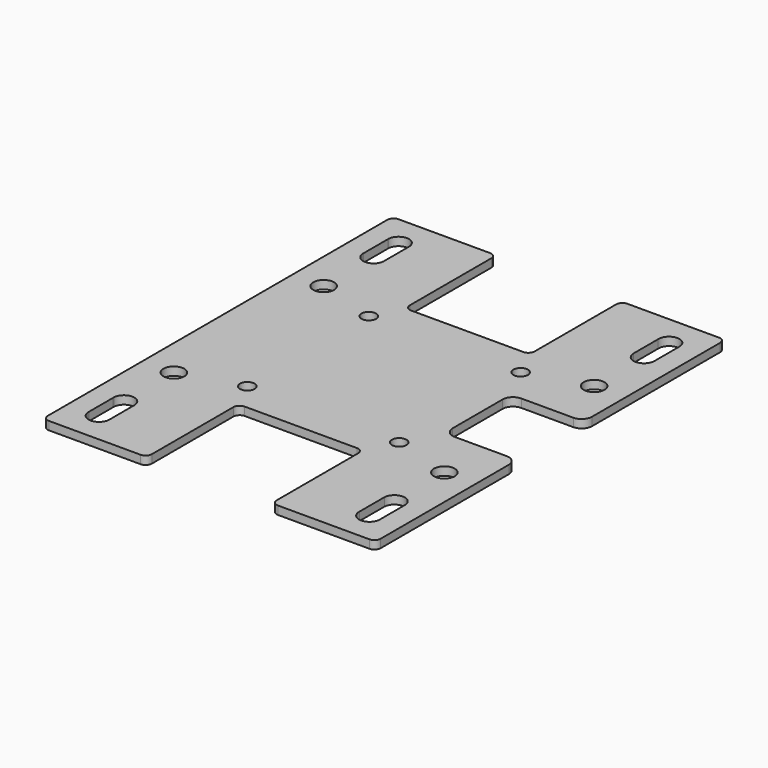
from build123d import *

# Parameters (mm, degrees)
F0_R     = 5
F0_R_2   = 3.5
F1_DEPTH = 4
F2_R     = 5


with BuildPart() as f1:
    # F0 (on Top) → F1 (new body)
    with BuildSketch(Plane.XY):
        with BuildLine():
            ThreePointArc((-80, -102), (-79.12132, -104.12132), (-77, -105))
            Line((-77, -105), (-33, -105))
            ThreePointArc((-33, -105), (-30.87868, -104.12132), (-30, -102))
            Line((-30, -102), (-30, -53))
            ThreePointArc((-30, -53), (-29.12132, -50.87868), (-27, -50))
            Line((-27, -50), (27, -50))
            ThreePointArc((27, -50), (29.12132, -50.87868), (30, -53))
            Line((30, -53), (30, -102))
            ThreePointArc((30, -102), (30.87868, -104.12132), (33, -105))
            Line((33, -105), (77, -105))
            ThreePointArc((77, -105), (79.12132, -104.12132), (80, -102))
            Line((80, -102), (80, -20))
            Line((80, -20), (45, -20))
            Line((45, -20), (45, 20))
            Line((45, 20), (80, 20))
            Line((80, 20), (80, 102))
            ThreePointArc((80, 102), (79.12132, 104.12132), (77, 105))
            Line((77, 105), (33, 105))
            ThreePointArc((33, 105), (30.87868, 104.12132), (30, 102))
            Line((30, 102), (30, 53))
            ThreePointArc((30, 53), (29.12132, 50.87868), (27, 50))
            Line((27, 50), (-27, 50))
            ThreePointArc((-27, 50), (-29.12132, 50.87868), (-30, 53))
            Line((-30, 53), (-30, 102))
            ThreePointArc((-30, 102), (-30.87868, 104.12132), (-33, 105))
            Line((-33, 105), (-77, 105))
            ThreePointArc((-77, 105), (-79.12132, 104.12132), (-80, 102))
            Line((-80, 102), (-80, -102))
        make_face()
        with BuildLine():
            Line((-69.994725, -89.77039), (-69.994725, -75.22961))
            ThreePointArc((-69.994725, -75.22961), (-70, -75), (-69.994725, -74.77039))
            ThreePointArc((-69.994725, -74.77039), (-65, -70), (-60.005275, -74.77039))
            Line((-60.005275, -74.77039), (-60.005275, -89.77039))
            ThreePointArc((-60.005275, -89.77039), (-64.77039, -94.994725), (-69.994725, -90.22961))
            ThreePointArc((-69.994725, -90.22961), (-70, -90), (-69.994725, -89.77039))
        make_face(mode=Mode.SUBTRACT)
        with Locations((-65, -45)):
            Circle(F0_R, mode=Mode.SUBTRACT)
        with Locations((-36.5, -36.5)):
            Circle(F0_R_2, mode=Mode.SUBTRACT)
        with BuildLine():
            ThreePointArc((69.994725, -74.77039), (70, -75), (69.994725, -75.22961))
            Line((69.994725, -75.22961), (69.994725, -89.77039))
            ThreePointArc((69.994725, -89.77039), (70, -90), (69.994725, -90.22961))
            ThreePointArc((69.994725, -90.22961), (64.77039, -94.994725), (60.005275, -89.77039))
            Line((60.005275, -89.77039), (60.005275, -74.77039))
            ThreePointArc((60.005275, -74.77039), (65, -70), (69.994725, -74.77039))
        make_face(mode=Mode.SUBTRACT)
        with Locations((36.5, -36.5)):
            Circle(F0_R_2, mode=Mode.SUBTRACT)
        with Locations((65, -45)):
            Circle(F0_R, mode=Mode.SUBTRACT)
        with Locations((-65, 45)):
            Circle(F0_R, mode=Mode.SUBTRACT)
        with Locations((-36.5, 36.5)):
            Circle(F0_R_2, mode=Mode.SUBTRACT)
        with BuildLine():
            ThreePointArc((-69.994725, 90.22961), (-64.77039, 94.994725), (-60.005275, 89.77039))
            Line((-60.005275, 89.77039), (-60.005275, 74.77039))
            ThreePointArc((-60.005275, 74.77039), (-65, 70), (-69.994725, 74.77039))
            ThreePointArc((-69.994725, 74.77039), (-70, 75), (-69.994725, 75.22961))
            Line((-69.994725, 75.22961), (-69.994725, 89.77039))
            ThreePointArc((-69.994725, 89.77039), (-70, 90), (-69.994725, 90.22961))
        make_face(mode=Mode.SUBTRACT)
        with Locations((36.5, 36.5)):
            Circle(F0_R_2, mode=Mode.SUBTRACT)
        with Locations((65, 45)):
            Circle(F0_R, mode=Mode.SUBTRACT)
        with BuildLine():
            Line((69.994725, 89.77039), (69.994725, 75.22961))
            ThreePointArc((69.994725, 75.22961), (70, 75), (69.994725, 74.77039))
            ThreePointArc((69.994725, 74.77039), (65, 70), (60.005275, 74.77039))
            Line((60.005275, 74.77039), (60.005275, 89.77039))
            ThreePointArc((60.005275, 89.77039), (64.77039, 94.994725), (69.994725, 90.22961))
            ThreePointArc((69.994725, 90.22961), (70, 90), (69.994725, 89.77039))
        make_face(mode=Mode.SUBTRACT)
    extrude(amount=F1_DEPTH)

    # F2
    f2_edges = [f1.edges().sort_by_distance(p)[0] for p in [
        (80, -20, 2),
        (45, -20, 2),
        (45, 20, 2),
        (80, 20, 2),
    ]]
    fillet(f2_edges, radius=F2_R)


solid = f1.part
